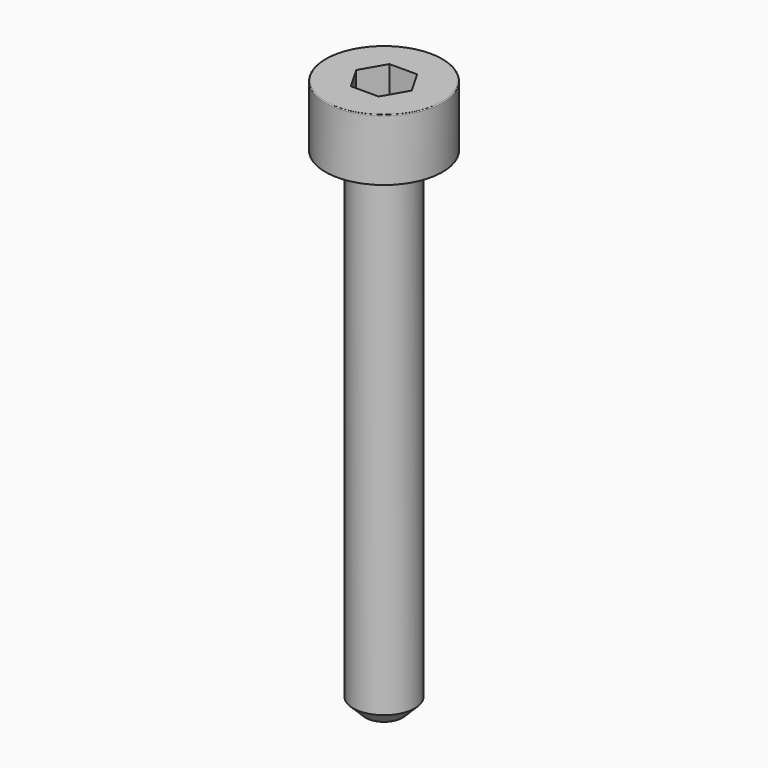
from build123d import *

# Parameters (mm, degrees)
POCKET_DEPTH = 1.56


with BuildPart() as part:
    # Sketch → Revolve (revolve)
    with BuildSketch(Plane.YZ):
        with BuildLine():
            Line((0.999, 0), (1.9, 0))
            Line((1.9, 0), (1.9, 1.97229))
            ThreePointArc((1.9, 1.97229), (1.891884, 1.991884), (1.87229, 2))
            Line((1.87229, 2), (0, 2))
            Line((0, -16), (0, 2))
            Line((0.6, -16), (0, -16))
            Line((1, -15.6), (0.6, -16))
            Line((1, -0.2), (1, -15.6))
            Line((0.999, 0), (1, -0.2))
        make_face()
    revolve(axis=Axis((0, 0, 0), (0, 0, 1)))

    # Sketch001 → Pocket (cut)
    with BuildSketch(Plane.XY.offset(2)):
        Polygon((0.900666, 0), (0.450333, 0.78), (-0.450333, 0.78), (-0.900666, 0), (-0.450333, -0.78), (0.450333, -0.78), align=None)
    extrude(amount=-POCKET_DEPTH, mode=Mode.SUBTRACT)


solid = part.part
